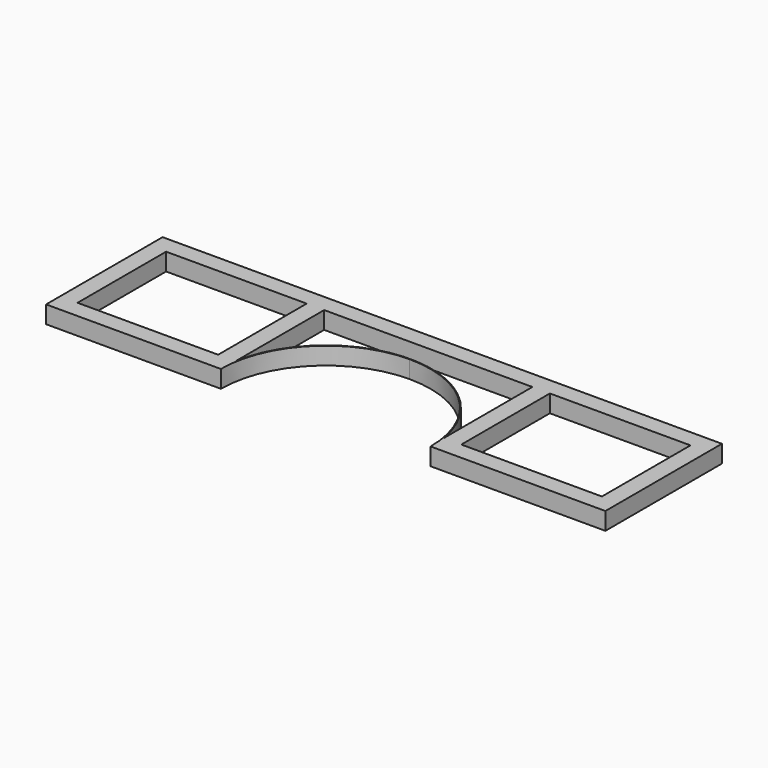
from build123d import *

# Parameters (mm, degrees)
F0_R      = 228.6
F1_DEPTH  = 2286
F3_DEPTH  = 38.1
F6_W      = 38.1
F6_H      = 38.1
F8_W      = 38.1
F8_H      = 38.1
F9_DEPTH  = 279.4
F10_W     = 571.5
F10_H     = 38.1
F11_DEPTH = 38.1
F12_W     = 424.9351322651
F12_H     = 38.1
F13_DEPTH = 546.101
F14_R     = 228.6
F15_DEPTH = 4572


with BuildPart() as f1:
    # F0 (on Top) → F1 (new body, symmetric)
    with BuildSketch(Plane.XY):
        Circle(F0_R)
    extrude(amount=F1_DEPTH, both=True)

    # F2 (on Top) → F3 (join)
    with BuildSketch(Plane.XY):
        with BuildLine():
            ThreePointArc((-226.949, 0), (-160.4771768835, 160.4771768835), (0, 226.949))
            Line((0, 226.949), (0, 230.124))
            ThreePointArc((0, 230.124), (-162.7222409138, 162.7222409138), (-230.124, 0))
            Line((-230.124, 0), (-226.949, 0))
        make_face()
    extrude(amount=F3_DEPTH)

    # F4: F1 across face


with BuildPart() as f1_1:
    add(f1.part)
    add(f1.part.mirror(Plane(origin=(0, 229.362, 19.05), x_dir=(0, 1, 0), z_dir=(1, 0, 0))))

    # F6 (on offset) → F7 (join, up to the next surface of F1)
    with BuildSketch(Plane.YZ.offset(609.6)):
        with Locations((19.05, 19.05)):
            Rectangle(F6_W, F6_H)
    extrude(until=Until.NEXT, dir=(-1, 0, 0))

    # F8 (on face) → F9 (join)
    with BuildSketch(Plane(origin=(0, 38.1, 0), x_dir=(-1, 0, 0), z_dir=(0, 1, 0))):
        with Locations((-590.55, 19.05)):
            Rectangle(F8_W, F8_H)
        with Locations((-245.9981116379, 19.05)):
            Rectangle(F8_W, F8_H)
    extrude(amount=F9_DEPTH)

    # F10 (on face) → F11 (join)
    with BuildSketch(Plane(origin=(0, 317.5, 0), x_dir=(-1, 0, 0), z_dir=(0, 1, 0))):
        with Locations((-285.75, 19.05)):
            Rectangle(F10_W, F10_H)
    extrude(amount=-F11_DEPTH)

    # F12 (on face) → F13 (cut, through all)
    with BuildSketch(Plane(origin=(0, 317.5, 0), x_dir=(-1, 0, 0), z_dir=(0, 1, 0))):
        with Locations((212.4675661325, 19.05)):
            Rectangle(F12_W, F12_H)
    extrude(amount=-F13_DEPTH, mode=Mode.SUBTRACT)

    # F14 (on face) → F15 (cut)
    with BuildSketch(Plane.XY.offset(2286)):
        Circle(F14_R)
    extrude(amount=-F15_DEPTH, mode=Mode.SUBTRACT)

    # F16: F1 across face


with BuildPart() as f1_2:
    add(f1_1.part)
    add(f1_1.part.mirror(Plane(origin=(0, 298.45, 19.05), x_dir=(0, -1, 0), z_dir=(-1, 0, 0))))


solid = f1_2.part
